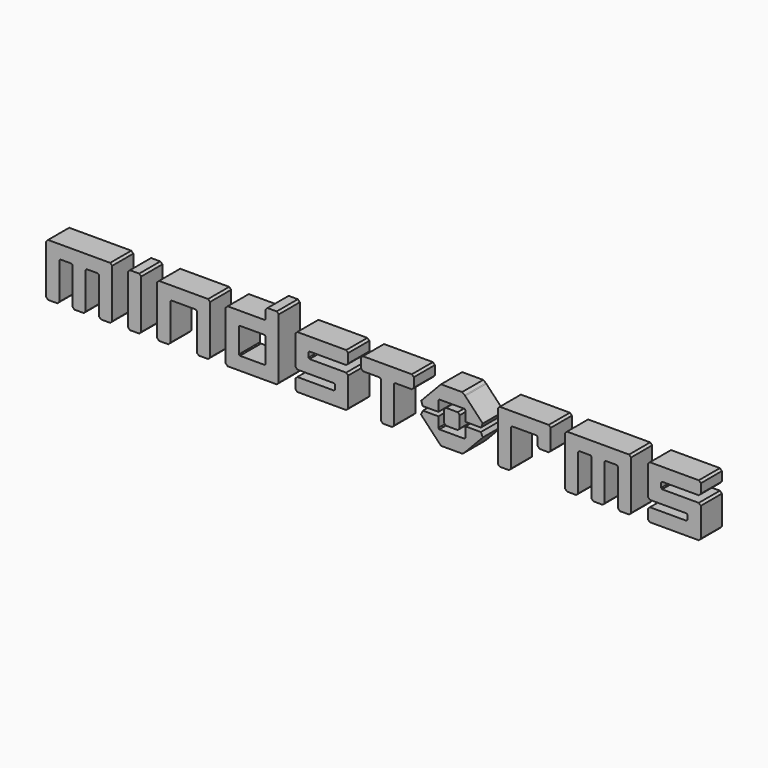
from build123d import *

# Parameters (mm, degrees)
F1_DEPTH = 1.27


with BuildPart() as f1:
    # F0 (on Front) → F1 (new body)
    with BuildSketch(Plane.XZ):
        Polygon((5.142052, -0.35345), (4.427891, -0.35345), (4.427891, -0.830177), (4.427891, -0.844567), (4.379316, -0.891318), (4.364959, -0.891318), (3.18488, -0.891318), (3.1687, -0.891318), (3.121949, -0.839162), (3.121949, -0.831967), (3.123739, -0.35345), (2.405997, -0.35345), (2.375426, -0.35345), (2.290877, -0.553153), (2.305234, -0.567543), (3.114754, -1.42199), (3.148938, -1.456175), (3.251426, -1.560519), (3.29821, -1.560519), (4.25342, -1.560519), (4.285781, -1.560519), (4.384754, -1.470565), (4.417115, -1.441785), (5.246396, -0.567543), (5.260786, -0.551329), (5.167251, -0.35345), align=None)
        Polygon((4.427891, 0.312104), (4.429714, -0.161009), (5.143843, -0.162799), (5.169042, -0.162799), (5.260786, 0.03687), (5.246396, 0.05126), (4.417115, 0.925535), (4.388335, 0.956106), (4.264196, 1.04606), (4.25342, 1.04606), (3.29821, 1.04606), (3.251426, 1.04606), (3.148938, 0.939925), (3.114754, 0.90395), (2.305234, 0.05126), (2.290877, 0.038694), (2.377217, -0.162799), (2.405997, -0.162799), (3.123739, -0.162799), (3.121949, 0.313894), (3.121949, 0.322913), (3.17049, 0.375068), (3.186704, 0.375068), (4.364959, 0.375068), (4.379316, 0.375068), (4.427891, 0.328284), align=None)
        Polygon((8.432156, 1.011875), (8.401585, 1.011875), (6.108072, 1.011875), (6.075645, 1.011875), (5.980319, 0.91834), (5.980319, 0.885946), (5.980319, -1.404019), (5.980319, -1.43459), (6.075645, -1.528125), (6.108072, -1.528125), (6.489407, -1.528125), (6.52001, -1.528125), (6.615336, -1.43459), (6.615336, -1.404019), (6.615336, 0.315718), (6.615336, 0.324703), (6.66391, 0.376859), (6.680058, 0.376859), (7.829533, 0.376859), (7.843956, 0.376859), (7.892531, 0.331898), (7.892531, 0.315718), (7.892531, -0.024271), (7.892531, -0.054874), (7.987856, -0.1502), (8.02025, -0.1502), (8.401585, -0.1502), (8.432156, -0.1502), (8.527547, -0.054874), (8.527547, -0.024271), (8.527547, 0.885946), (8.527547, 0.91834), align=None)
        Polygon((13.837754, 0.12142), (13.837754, 0.315718), (13.837754, 0.331898), (13.882748, 0.376859), (13.898928, 0.376859), (15.616842, 0.376859), (15.647445, 0.376859), (15.744561, 0.474008), (15.744561, 0.504578), (15.744561, 0.885946), (15.744561, 0.91834), (15.647445, 1.011875), (15.616842, 1.011875), (13.328667, 1.011875), (13.296306, 1.011875), (13.202771, 0.91834), (13.202771, 0.885946), (13.202771, -0.450599), (13.202771, -0.482993), (13.296306, -0.580142), (13.328667, -0.580142), (15.051985, -0.580142), (15.059213, -0.580142), (15.107754, -0.623312), (15.107754, -0.639493), (15.107754, -0.831967), (15.107754, -0.846357), (15.057389, -0.891318), (15.050194, -0.893141), (13.328667, -0.893141), (13.296306, -0.893141), (13.202771, -0.990257), (13.202771, -1.022651), (13.202771, -1.404019), (13.202771, -1.43459), (13.296306, -1.528125), (13.328667, -1.528125), (15.616842, -1.528125), (15.647445, -1.528125), (15.744561, -1.43459), (15.744561, -1.404019), (15.744561, -0.069264), (15.744561, -0.03687), (15.647445, 0.056665), (15.616842, 0.056665), (13.900719, 0.056665), (13.884538, 0.056665), (13.837754, 0.105239), align=None)
        Polygon((-3.120126, 0.12142), (-3.120126, 0.315718), (-3.120126, 0.331898), (-3.075166, 0.376859), (-3.058952, 0.376859), (-1.341039, 0.376859), (-1.310468, 0.376859), (-1.213352, 0.474008), (-1.213352, 0.504578), (-1.213352, 0.885946), (-1.213352, 0.91834), (-1.310468, 1.011875), (-1.341039, 1.011875), (-3.629214, 1.011875), (-3.661575, 1.011875), (-3.75511, 0.91834), (-3.75511, 0.885946), (-3.75511, -0.450599), (-3.75511, -0.482993), (-3.661575, -0.580142), (-3.629214, -0.580142), (-1.904105, -0.580142), (-1.89691, -0.580142), (-1.850126, -0.623312), (-1.850126, -0.639493), (-1.850126, -0.831967), (-1.850126, -0.846357), (-1.900524, -0.891318), (-1.907686, -0.893141), (-3.629214, -0.893141), (-3.661575, -0.893141), (-3.75511, -0.990257), (-3.75511, -1.022651), (-3.75511, -1.404019), (-3.75511, -1.43459), (-3.661575, -1.528125), (-3.629214, -1.528125), (-1.341039, -1.528125), (-1.310468, -1.528125), (-1.213352, -1.43459), (-1.213352, -1.404019), (-1.213352, -0.069264), (-1.213352, -0.03687), (-1.310468, 0.056665), (-1.341039, 0.056665), (-3.057162, 0.056665), (-3.073342, 0.056665), (-3.120126, 0.105239), align=None)
        Polygon((-4.652727, 1.560519), (-4.683331, 1.560519), (-5.062908, 1.560519), (-5.095302, 1.560519), (-5.190628, 1.465193), (-5.190628, 1.432799), (-5.190628, 1.07663), (-5.190628, 1.06045), (-5.239202, 1.011875), (-5.253559, 1.011875), (-6.978668, 1.011875), (-7.011062, 1.011875), (-7.10463, 0.91834), (-7.10463, 0.885946), (-7.10463, -1.404019), (-7.10463, -1.43459), (-7.011062, -1.528125), (-6.978668, -1.528125), (-4.683331, -1.528125), (-4.652727, -1.528125), (-4.555611, -1.43459), (-4.555611, -1.404019), (-4.555611, 1.432799), (-4.555611, 1.465193), align=None)
        Polygon((-5.190628, 0.315718), (-5.190628, -0.831967), (-5.190628, -0.846357), (-5.239202, -0.893141), (-5.253559, -0.893141), (-6.406649, -0.893141), (-6.422862, -0.893141), (-6.46958, -0.846357), (-6.46958, -0.831967), (-6.46958, 0.315718), (-6.46958, 0.331898), (-6.422862, 0.376859), (-6.406649, 0.376859), (-5.253559, 0.376859), (-5.239202, 0.376859), (-5.190628, 0.331898), align=None, mode=Mode.SUBTRACT)
        Polygon((1.844721, 1.011875), (1.81415, 1.011875), (-0.473992, 1.011875), (-0.506353, 1.011875), (-0.601744, 0.91834), (-0.601744, 0.885946), (-0.601744, 0.504578), (-0.601744, 0.474008), (-0.506353, 0.376859), (-0.473992, 0.376859), (0.29773, 0.376859), (0.312087, 0.376859), (0.358904, 0.326494), (0.360694, 0.317508), (0.360694, -1.404019), (0.360694, -1.43459), (0.454196, -1.528125), (0.48659, -1.528125), (0.867925, -1.528125), (0.898562, -1.528125), (0.995678, -1.43459), (0.995678, -1.404019), (0.995678, 0.315718), (0.995678, 0.331898), (1.042462, 0.376859), (1.058642, 0.376859), (1.81415, 0.376859), (1.844721, 0.376859), (1.940079, 0.474008), (1.940079, 0.504578), (1.940079, 0.885946), (1.940079, 0.91834), align=None)
        Polygon((-7.953673, 1.011875), (-7.984243, 1.011875), (-10.279613, 1.011875), (-10.311974, 1.011875), (-10.4073, 0.91834), (-10.4073, 0.885946), (-10.4073, -1.404019), (-10.4073, -1.43459), (-10.311974, -1.528125), (-10.279613, -1.528125), (-9.900069, -1.528125), (-9.869498, -1.528125), (-9.772316, -1.43459), (-9.772316, -1.404019), (-9.772316, 0.315718), (-9.772316, 0.324703), (-9.723775, 0.376859), (-9.707561, 0.376859), (-8.556295, 0.376859), (-8.541872, 0.376859), (-8.493331, 0.331898), (-8.493331, 0.315718), (-8.493331, -1.404019), (-8.493331, -1.43459), (-8.397972, -1.528125), (-8.365611, -1.528125), (-7.984243, -1.528125), (-7.953673, -1.528125), (-7.858347, -1.43459), (-7.858347, -1.404019), (-7.858347, 0.885946), (-7.858347, 0.91834), align=None)
        Polygon((12.294311, 1.011875), (12.263741, 1.011875), (9.342406, 1.011875), (9.310045, 1.011875), (9.214653, 0.91834), (9.214653, 0.885946), (9.214653, -1.404019), (9.214653, -1.43459), (9.310045, -1.528125), (9.342406, -1.528125), (9.72195, -1.528125), (9.752554, -1.528125), (9.849703, -1.43459), (9.849703, -1.404019), (9.849703, 0.315718), (9.849703, 0.331898), (9.896454, 0.376859), (9.912667, 0.376859), (10.421722, 0.376859), (10.436112, 0.376859), (10.484719, 0.331898), (10.484719, 0.315718), (10.484719, -1.404019), (10.484719, -1.43459), (10.580045, -1.528125), (10.612406, -1.528125), (10.993741, -1.528125), (11.024344, -1.528125), (11.121493, -1.43459), (11.121493, -1.404019), (11.121493, 0.315718), (11.121493, 0.331898), (11.168244, 0.376859), (11.184458, 0.376859), (11.693545, 0.376859), (11.707902, 0.376859), (11.75651, 0.331898), (11.75651, 0.315718), (11.75651, -1.404019), (11.75651, -1.43459), (11.851802, -1.528125), (11.884196, -1.528125), (12.263741, -1.528125), (12.294311, -1.528125), (12.391493, -1.43459), (12.391493, -1.404019), (12.391493, 0.885946), (12.391493, 0.91834), align=None)
        Polygon((-12.663114, 1.011875), (-12.693684, 1.011875), (-15.616843, 1.011875), (-15.649237, 1.011875), (-15.744562, 0.91834), (-15.744562, 0.885946), (-15.744562, -1.404019), (-15.744562, -1.43459), (-15.649237, -1.528125), (-15.616843, -1.528125), (-15.235475, -1.528125), (-15.204904, -1.528125), (-15.107755, -1.43459), (-15.107755, -1.404019), (-15.107755, 0.315718), (-15.107755, 0.331898), (-15.061004, 0.376859), (-15.044791, 0.376859), (-14.535703, 0.376859), (-14.521346, 0.376859), (-14.472772, 0.331898), (-14.472772, 0.315718), (-14.472772, -1.404019), (-14.472772, -1.43459), (-14.377413, -1.528125), (-14.345052, -1.528125), (-13.963684, -1.528125), (-13.933114, -1.528125), (-13.837755, -1.43459), (-13.837755, -1.404019), (-13.837755, 0.315718), (-13.837755, 0.324703), (-13.791004, 0.376859), (-13.774791, 0.376859), (-13.265736, 0.376859), (-13.251346, 0.376859), (-13.202772, 0.331898), (-13.202772, 0.315718), (-13.202772, -1.404019), (-13.202772, -1.43459), (-13.107413, -1.528125), (-13.075052, -1.528125), (-12.693684, -1.528125), (-12.663114, -1.528125), (-12.565965, -1.43459), (-12.565965, -1.404019), (-12.565965, 0.885946), (-12.565965, 0.91834), align=None)
        Polygon((-11.168245, -1.43459), (-11.168245, -1.404019), (-11.168245, 0.885946), (-11.168245, 0.91834), (-11.265394, 1.011875), (-11.295965, 1.011875), (-11.677333, 1.011875), (-11.709694, 1.011875), (-11.805052, 0.91834), (-11.805052, 0.885946), (-11.805052, -1.404019), (-11.805052, -1.43459), (-11.709694, -1.528125), (-11.677333, -1.528125), (-11.295965, -1.528125), (-11.265394, -1.528125), align=None)
        Polygon((4.021357, 0.125034), (3.523078, 0.125034), (3.490717, 0.125034), (3.393535, 0.027885), (3.393535, -0.0063), (3.393535, -0.504578), (3.393535, -0.535149), (3.490717, -0.630507), (3.523078, -0.630507), (4.021357, -0.630507), (4.053751, -0.630507), (4.1509, -0.535149), (4.1509, -0.504578), (4.1509, -0.0063), (4.1509, 0.027885), (4.053751, 0.125034), align=None)
    extrude(amount=F1_DEPTH)


solid = f1.part
